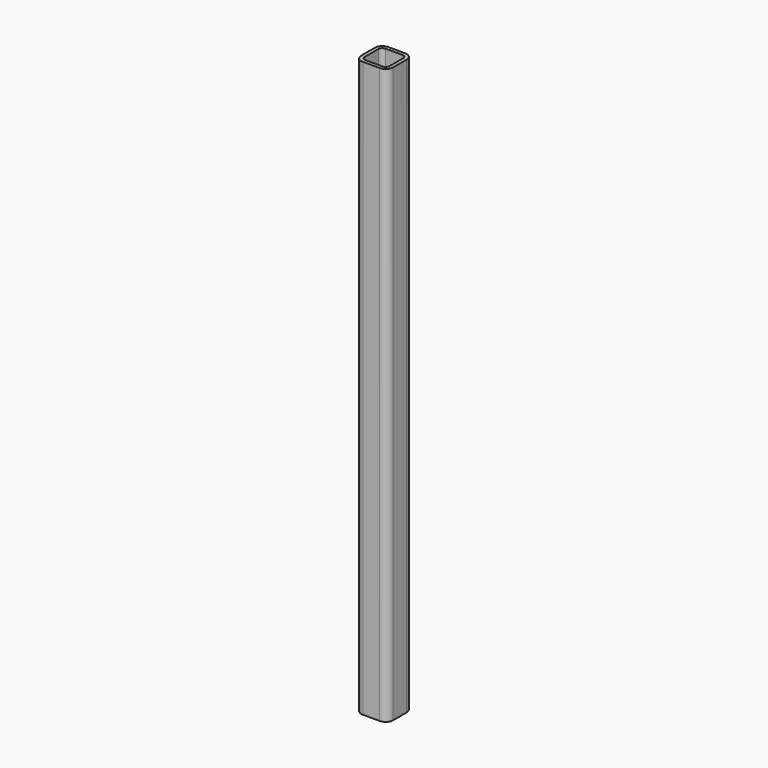
from build123d import *

# Parameters (mm, degrees)
F1_DEPTH = 457.2
F3_DEPTH = 2.794


with BuildPart() as f1:
    # F0 (on Top) → F1 (new body)
    with BuildSketch(Plane.XY):
        with BuildLine():
            ThreePointArc((0, 5.969), (1.74828, 1.74828), (5.969, 0))
            Line((5.969, 0), (19.431, 0))
            ThreePointArc((19.431, 0), (23.65172, 1.74828), (25.4, 5.969))
            Line((25.4, 5.969), (25.4, 19.431))
            ThreePointArc((25.4, 19.431), (23.65172, 23.65172), (19.431, 25.4))
            Line((19.431, 25.4), (5.969, 25.4))
            ThreePointArc((5.969, 25.4), (1.74828, 23.65172), (0, 19.431))
            Line((0, 19.431), (0, 5.969))
        make_face()
        with BuildLine():
            ThreePointArc((2.794, 19.431), (3.723936, 21.676064), (5.969, 22.606))
            Line((5.969, 22.606), (19.431, 22.606))
            ThreePointArc((19.431, 22.606), (21.676064, 21.676064), (22.606, 19.431))
            Line((22.606, 19.431), (22.606, 5.969))
            ThreePointArc((22.606, 5.969), (21.676064, 3.723936), (19.431, 2.794))
            Line((19.431, 2.794), (5.969, 2.794))
            ThreePointArc((5.969, 2.794), (3.723936, 3.723936), (2.794, 5.969))
            Line((2.794, 5.969), (2.794, 19.431))
        make_face(mode=Mode.SUBTRACT)
    extrude(amount=F1_DEPTH)

    # F2 (on face) → F3 (cut, through all)
    with BuildSketch(Plane(origin=(0, 25.4, 0), x_dir=(-1, 0, 0), z_dir=(0, 1, 0))):
        with BuildLine():
            ThreePointArc((-8.636, 381), (-9.826318, 383.873682), (-12.7, 385.064))
            ThreePointArc((-12.7, 385.064), (-15.573682, 378.126318), (-8.636, 381))
        make_face()
    extrude(amount=-F3_DEPTH, mode=Mode.SUBTRACT)


solid = f1.part
